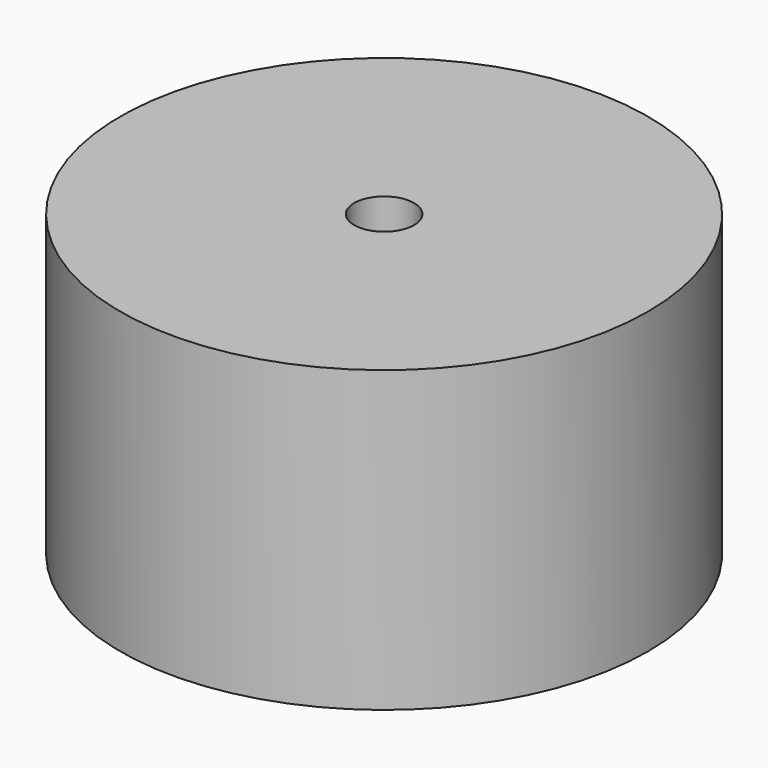
from build123d import *

# Parameters (mm, degrees)
CYLINDER091_R     = 3
CYLINDER091_DEPTH = 10
CYLINDER090_R     = 1.7
CYLINDER090_DEPTH = 30
CYLINDER092_R     = 11.85
CYLINDER092_DEPTH = 100
CYLINDER014_R     = 15
CYLINDER014_DEPTH = 17


with BuildPart() as cylinder369:
    # Cylinder091 → Cylinder091 (new body)
    with BuildSketch(Plane.XY.offset(124)):
        Circle(CYLINDER091_R)
    extrude(amount=CYLINDER091_DEPTH)


with BuildPart() as cylinder368:
    # Cylinder090 → Cylinder090 (new body)
    with BuildSketch(Plane.XY.offset(128)):
        Circle(CYLINDER090_R)
    extrude(amount=CYLINDER090_DEPTH)


with BuildPart() as cylinder370:
    # Cylinder092 → Cylinder092 (new body)
    with BuildSketch(Plane.XY.offset(31)):
        Circle(CYLINDER092_R)
    extrude(amount=CYLINDER092_DEPTH)


with BuildPart() as winder_end_free:
    # Cylinder014 → Cylinder014 (new body)
    with BuildSketch(Plane.XY.offset(124)):
        Circle(CYLINDER014_R)
    extrude(amount=CYLINDER014_DEPTH)

    # Cut050: cut Cylinder370
    add(cylinder370.part, mode=Mode.SUBTRACT)

    # Cut051: cut Cylinder368
    add(cylinder368.part, mode=Mode.SUBTRACT)

    # Cut052: cut Cylinder369
    add(cylinder369.part, mode=Mode.SUBTRACT)


solid = winder_end_free.part
